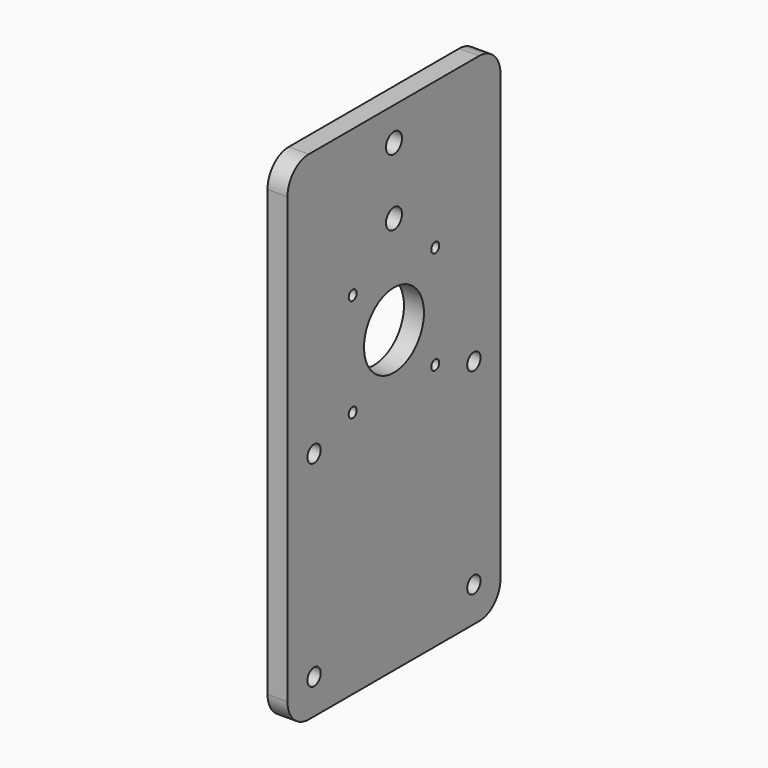
from build123d import *

# Parameters (mm, degrees)
F0_R     = 2.5
F0_R_2   = 1.5
F0_R_3   = 11.25
F0_R_4   = 3
F1_DEPTH = 3


with BuildPart() as f1:
    # F0 (on Right) → F1 (new body, symmetric)
    with BuildSketch(Plane.YZ):
        with BuildLine():
            Line((32, 109.5), (-32, 109.5))
            ThreePointArc((-32, 109.5), (-37.6568542495, 107.1568542495), (-40, 101.5))
            Line((-40, 101.5), (-40, -32))
            ThreePointArc((-40, -32), (-37.6568542495, -37.6568542495), (-32, -40))
            Line((-32, -40), (32, -40))
            ThreePointArc((32, -40), (37.6568542495, -37.6568542495), (40, -32))
            Line((40, -32), (40, 101.5))
            ThreePointArc((40, 101.5), (37.6568542495, 107.1568542495), (32, 109.5))
        make_face()
        with Locations((-30, -29.5)):
            Circle(F0_R, mode=Mode.SUBTRACT)
        with Locations((-30, 29.5)):
            Circle(F0_R, mode=Mode.SUBTRACT)
        with Locations((-15.5, 34.5)):
            Circle(F0_R_2, mode=Mode.SUBTRACT)
        with Locations((30, -29.5)):
            Circle(F0_R, mode=Mode.SUBTRACT)
        with Locations((15.5, 34.5)):
            Circle(F0_R_2, mode=Mode.SUBTRACT)
        with Locations((30, 29.5)):
            Circle(F0_R, mode=Mode.SUBTRACT)
        with Locations((-15.5, 65.5)):
            Circle(F0_R_2, mode=Mode.SUBTRACT)
        with Locations((0, 50)):
            Circle(F0_R_3, mode=Mode.SUBTRACT)
        with Locations((15.5, 65.5)):
            Circle(F0_R_2, mode=Mode.SUBTRACT)
        with Locations((0, 79.5)):
            Circle(F0_R_4, mode=Mode.SUBTRACT)
        with Locations((0, 99.5)):
            Circle(F0_R_4, mode=Mode.SUBTRACT)
    extrude(amount=F1_DEPTH, both=True)


solid = f1.part
